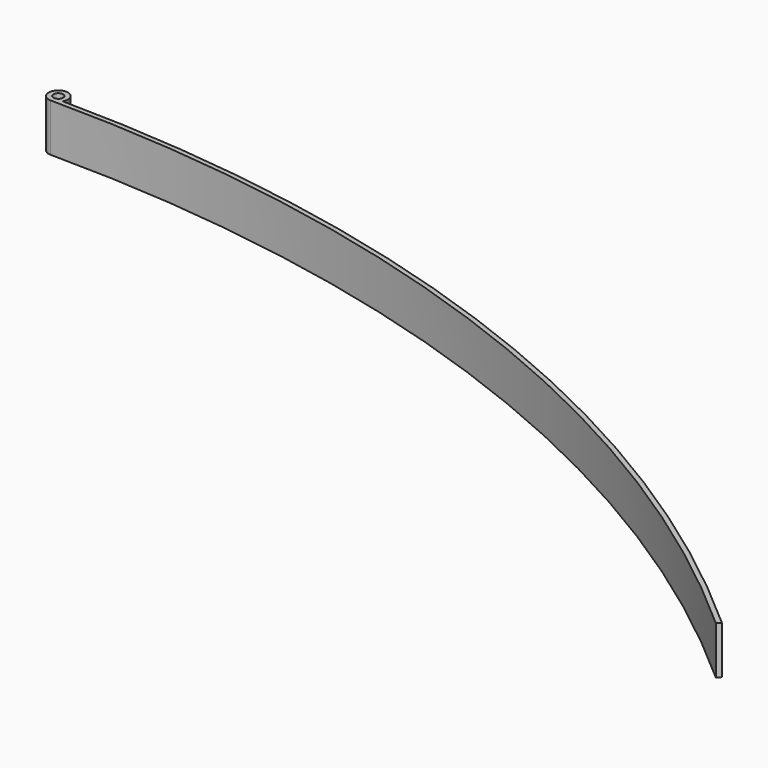
from build123d import *

# Parameters (mm, degrees)
F0_R     = 5
F1_DEPTH = 50


with BuildPart() as f1:
    # F0 (on Top) → F1 (new body)
    with BuildSketch(Plane.XY):
        with BuildLine():
            Line((0, 1505.000002), (0, 1500.009527))
            ThreePointArc((0, 1500.009527), (4.982806, 1501.339369), (8.640344, 1504.975199))
            ThreePointArc((8.640344, 1504.975199), (4.32019, 1504.993801), (0, 1505.000002))
        make_face()
        with BuildLine():
            ThreePointArc((10, 1510.009527), (-7.071068, 1517.080595), (0, 1500.009527))
            Line((0, 1500.009527), (0, 1505.000002))
            ThreePointArc((0, 1505.000002), (4.32019, 1504.993801), (8.640344, 1504.975199))
            ThreePointArc((8.640344, 1504.975199), (9.654104, 1507.402176), (10, 1510.009527))
        make_face()
        with Locations((0, 1510.009527)):
            Circle(F0_R, mode=Mode.SUBTRACT)
        with BuildLine():
            ThreePointArc((0, 1500), (535.233135, 1401.258538), (1000, 1118.033989))
            Line((1000, 1118.033989), (1003.333335, 1121.76077))
            ThreePointArc((1003.333335, 1121.76077), (541.050835, 1404.38207), (8.640344, 1504.975199))
            ThreePointArc((8.640344, 1504.975199), (4.982806, 1501.339369), (0, 1500.009527))
            Line((0, 1500.009527), (0, 1500))
        make_face()
    extrude(amount=F1_DEPTH)


solid = f1.part
